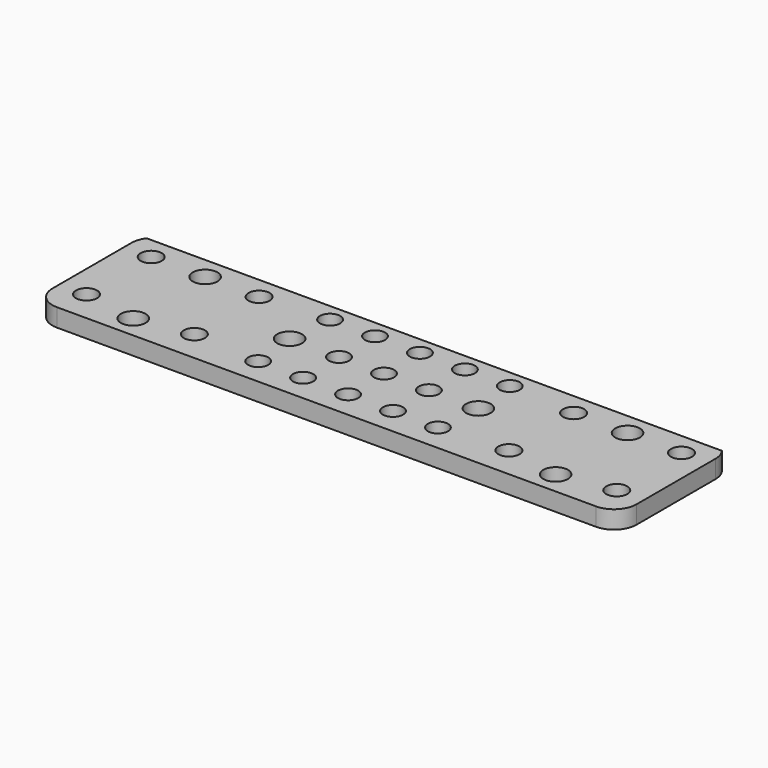
from build123d import *

# Parameters (mm, degrees)
SKETCH_W        = 130
SKETCH_H        = 32
PAD_DEPTH       = 4
SKETCH001_R     = 2.35
SKETCH001_R_2   = 2.75
POCKET_DEPTH    = 4.001
SKETCH002_R     = 2.25
POCKET001_DEPTH = 4.001
CHAMFER_SIZE    = 2
FILLET_R        = 5


with BuildPart() as part:
    # Sketch → Pad (new body)
    with BuildSketch(Plane.XY):
        Rectangle(SKETCH_W, SKETCH_H)
    extrude(amount=PAD_DEPTH)

    # Sketch001 → Pocket (cut, through all)
    with BuildSketch(Plane.XY.offset(4)):
        with Locations((-35, 9)):
            Circle(SKETCH001_R)
        with Locations((-58.997728, -9)):
            Circle(SKETCH001_R)
        with Locations((-59, 9)):
            Circle(SKETCH001_R)
        with Locations((35, 9)):
            Circle(SKETCH001_R)
        with Locations((59, -9)):
            Circle(SKETCH001_R)
        with Locations((59, 9)):
            Circle(SKETCH001_R)
        with Locations((-47, 9)):
            Circle(SKETCH001_R_2)
        with Locations((-47, -11)):
            Circle(SKETCH001_R_2)
        with Locations((47, 9)):
            Circle(SKETCH001_R_2)
        with Locations((47, -11)):
            Circle(SKETCH001_R_2)
        with Locations((-21, 0)):
            Circle(SKETCH001_R_2)
        with Locations((21, 0)):
            Circle(SKETCH001_R_2)
        with Locations((-35, -9)):
            Circle(SKETCH001_R)
        with Locations((35, -9)):
            Circle(SKETCH001_R)
    extrude(amount=-POCKET_DEPTH, mode=Mode.SUBTRACT)

    # Sketch002 → Pocket001 (cut, through all)
    with BuildSketch(Plane.XY.offset(4)):
        with Locations((-10, 10)):
            Circle(SKETCH002_R)
        with Locations((-10, 0)):
            Circle(SKETCH002_R)
        with Locations((10, 10)):
            Circle(SKETCH002_R)
        with Locations((10, 0)):
            Circle(SKETCH002_R)
        with Locations((0, 10)):
            Circle(SKETCH002_R)
        Circle(SKETCH002_R)
        with Locations((0, -10)):
            Circle(SKETCH002_R)
        with Locations((-10, -10)):
            Circle(SKETCH002_R)
        with Locations((10, -10)):
            Circle(SKETCH002_R)
        with Locations((-20, 10)):
            Circle(SKETCH002_R)
        with Locations((20, 10)):
            Circle(SKETCH002_R)
        with Locations((20, -10)):
            Circle(SKETCH002_R)
        with Locations((-20, -10)):
            Circle(SKETCH002_R)
    extrude(amount=-POCKET001_DEPTH, mode=Mode.SUBTRACT)

    # Chamfer
    chamfer_edges = [part.edges().sort_by_distance(p)[0] for p in [
        (0, 16, 4),
    ]]
    chamfer(chamfer_edges, length=CHAMFER_SIZE)

    # Fillet
    fillet_edges = [part.edges().sort_by_distance(p)[0] for p in [
        (-65, 16, 1),
        (65, 16, 1),
        (-65, -16, 2),
        (65, -16, 2),
    ]]
    fillet(fillet_edges, radius=FILLET_R)


solid = part.part
